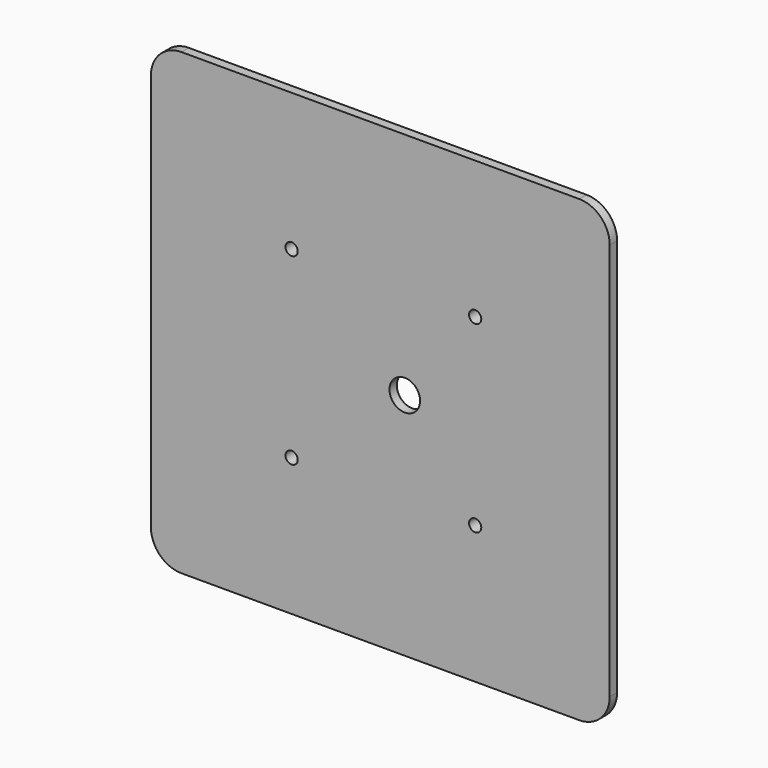
from build123d import *

# Parameters (mm, degrees)
F0_R     = 5
F1_DEPTH = 3
F2_W     = 3
F2_H     = 80
F3_DEPTH = 25
F2_W_2   = 22
F4_DEPTH = 3
F5_R     = 2
F6_DEPTH = 150
F7_R     = 2
F8_DEPTH = 25


with BuildPart() as f1:
    # F0 (on Front) → F1 (new body)
    with BuildSketch(Plane.XZ):
        with BuildLine():
            ThreePointArc((0, 10), (2.928932, 2.928932), (10, 0))
            Line((10, 0), (140, 0))
            ThreePointArc((140, 0), (147.071068, 2.928932), (150, 10))
            Line((150, 10), (150, 140))
            ThreePointArc((150, 140), (147.071068, 147.071068), (140, 150))
            Line((140, 150), (10, 150))
            ThreePointArc((10, 150), (2.928932, 147.071068), (0, 140))
            Line((0, 140), (0, 10))
        make_face()
        with Locations((83, 75)):
            Circle(F0_R, mode=Mode.SUBTRACT)
    extrude(amount=F1_DEPTH)

    # F2 (on face) → F3 (join)
    with BuildSketch(Plane(origin=(0, 0, 0), x_dir=(-1, 0, 0), z_dir=(0, 1, 0))):
        with Locations((-118.5, 75)):
            Rectangle(F2_W, F2_H)
        with Locations((-33.5, 75)):
            Rectangle(F2_W, F2_H)
    extrude(amount=F3_DEPTH)

    # F2 (on face) → F4 (join)
    with BuildSketch(Plane(origin=(0, 0, 0), x_dir=(-1, 0, 0), z_dir=(0, 1, 0))):
        with Locations((-106, 75)):
            Rectangle(F2_W_2, F2_H)
        with Locations((-118.5, 75)):
            Rectangle(F2_W, F2_H)
        with Locations((-46, 75)):
            Rectangle(F2_W_2, F2_H)
        with Locations((-33.5, 75)):
            Rectangle(F2_W, F2_H)
    extrude(amount=F4_DEPTH)

    # F5 (on face) → F6 (cut)
    with BuildSketch(Plane.YZ.offset(120)):
        with Locations((15, 105)):
            Circle(F5_R)
        with Locations((15, 45)):
            Circle(F5_R)
    extrude(amount=-F6_DEPTH, mode=Mode.SUBTRACT)

    # F7 (on face) → F8 (cut)
    with BuildSketch(Plane(origin=(0, 3, 0), x_dir=(-1, 0, 0), z_dir=(0, 1, 0))):
        with Locations((-46, 45)):
            Circle(F7_R)
        with Locations((-46, 105)):
            Circle(F7_R)
        with Locations((-106, 45)):
            Circle(F7_R)
        with Locations((-106, 105)):
            Circle(F7_R)
    extrude(amount=-F8_DEPTH, mode=Mode.SUBTRACT)


solid = f1.part
